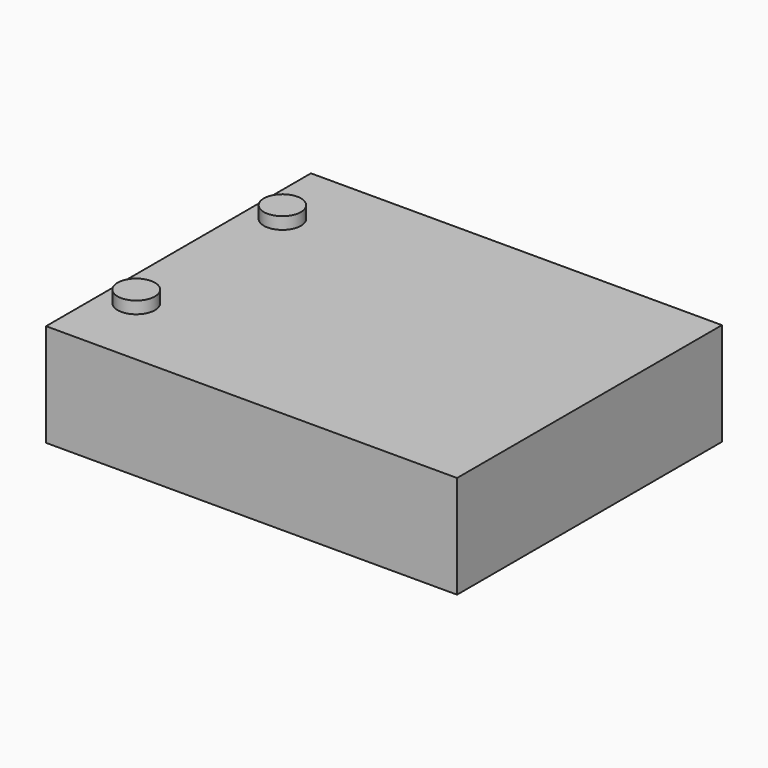
from build123d import *

# Parameters (mm, degrees)
SKETCH_W      = 180
SKETCH_H      = 145
PAD_DEPTH     = 45
SKETCH001_R   = 8.128419
SKETCH001_R_2 = 8.170495
PAD001_DEPTH  = 5.3


with BuildPart() as part:
    # Sketch → Pad (new body)
    with BuildSketch(Plane.XY):
        with Locations((90, 72.5)):
            Rectangle(SKETCH_W, SKETCH_H)
    extrude(amount=PAD_DEPTH)

    # Sketch001 (on Face6 of Pad) → Pad001 (join)
    with BuildSketch(Plane.XY.offset(45)):
        with Locations((13.5, 112.5)):
            Circle(SKETCH001_R)
        with Locations((13.5, 32.5)):
            Circle(SKETCH001_R_2)
    extrude(amount=PAD001_DEPTH)


solid = part.part
